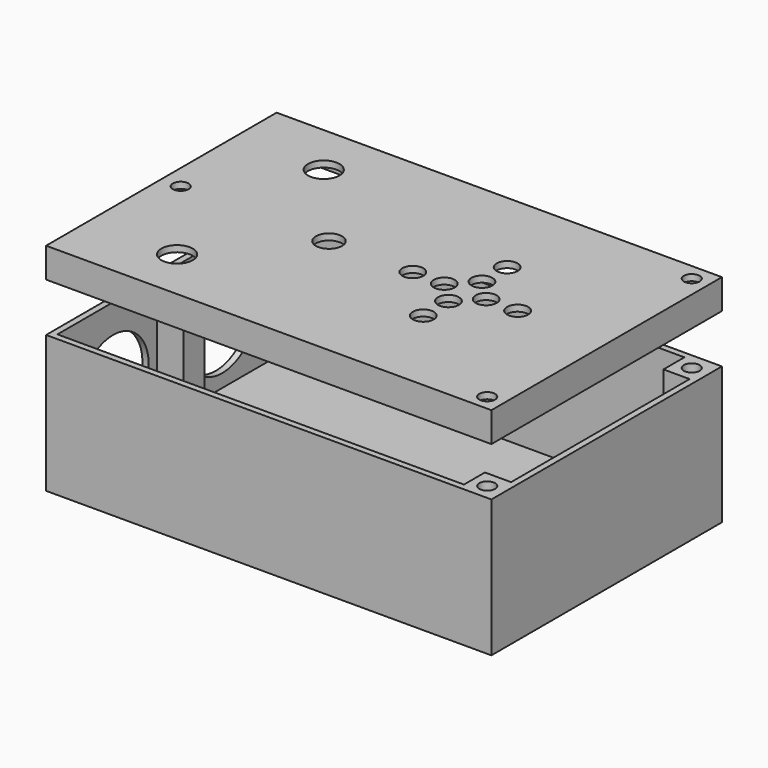
from build123d import *

# Parameters (mm, degrees)
SKETCH_W        = 85
SKETCH_H        = 55
PAD_DEPTH       = 1.2
SKETCH001_W     = 85
SKETCH001_H     = 55
SKETCH001_W_2   = 82.6
SKETCH001_H_2   = 52.6
PAD001_DEPTH    = 25
SKETCH002_R     = 8.5
POCKET_DEPTH    = 5
SKETCH003_W     = 6.2
SKETCH003_H     = 6.2
SKETCH003_W_2   = 5
SKETCH003_H_2   = 5
PAD002_DEPTH    = 25
SKETCH004_R     = 1.5
POCKET001_DEPTH = 20
SKETCH005_W     = 85
SKETCH005_H     = 55
SKETCH005_R     = 1.5
PAD003_DEPTH    = 1.2
SKETCH006_R     = 3
SKETCH006_R_2   = 2.5
SKETCH006_R_3   = 2
POCKET002_DEPTH = 2
SKETCH007_W     = 85
SKETCH007_H     = 55
SKETCH007_W_2   = 82.6
SKETCH007_H_2   = 52.6
PAD004_DEPTH    = 4.5


with BuildPart() as body:
    # Sketch → Pad (new body)
    with BuildSketch(Plane.XY):
        with Locations((42.5, 27.5)):
            Rectangle(SKETCH_W, SKETCH_H)
    extrude(amount=PAD_DEPTH)

    # Sketch001 (on Face6 of Pad) → Pad001 (join)
    with BuildSketch(Plane.XY.offset(1.2)):
        with Locations((42.5, 27.5)):
            Rectangle(SKETCH001_W, SKETCH001_H)
        with Locations((42.5, 27.5)):
            Rectangle(SKETCH001_W_2, SKETCH001_H_2, mode=Mode.SUBTRACT)
    extrude(amount=PAD001_DEPTH)

    # Sketch002 (on Face7 of Pad001) → Pocket (cut)
    with BuildSketch(Plane(origin=(0, 0, 0), x_dir=(0, -1, 0), z_dir=(-1, 0, 0))):
        with Locations((-40.5, 12.2)):
            Circle(SKETCH002_R)
        with Locations((-14.5, 12.2)):
            Circle(SKETCH002_R)
    extrude(amount=-POCKET_DEPTH, mode=Mode.SUBTRACT)

    # Sketch003 (on Face17 of Pocket) → Pad002 (join)
    with BuildSketch(Plane.XY.offset(1.2)):
        with Locations((81.9, 51.9)):
            Rectangle(SKETCH003_W, SKETCH003_H)
        with Locations((81.9, 3.1)):
            Rectangle(SKETCH003_W, SKETCH003_H)
        with Locations((3.7, 27.5)):
            Rectangle(SKETCH003_W_2, SKETCH003_H_2)
    extrude(amount=PAD002_DEPTH)

    # Sketch004 (on Face22 of Pad002) → Pocket001 (cut)
    with BuildSketch(Plane.XY.offset(26.2)):
        with Locations((3.7, 27.5)):
            Circle(SKETCH004_R)
        with Locations((81.8, 51.8)):
            Circle(SKETCH004_R)
        with Locations((81.8, 3)):
            Circle(SKETCH004_R)
    extrude(amount=-POCKET001_DEPTH, mode=Mode.SUBTRACT)


with BuildPart() as body001:
    # Sketch005 → Pad003 (new body)
    with BuildSketch(Plane.XY):
        with Locations((42.5, 27.5)):
            Rectangle(SKETCH005_W, SKETCH005_H)
        with Locations((3.7, 27.5)):
            Circle(SKETCH005_R, mode=Mode.SUBTRACT)
        with Locations((81.8, 51.8)):
            Circle(SKETCH005_R, mode=Mode.SUBTRACT)
        with Locations((81.8, 3)):
            Circle(SKETCH005_R, mode=Mode.SUBTRACT)
    extrude(amount=PAD003_DEPTH)

    # Sketch006 (on Face9 of Pad003) → Pocket002 (cut)
    with BuildSketch(Plane.XY.offset(1.2)):
        with Locations((17, 45)):
            Circle(SKETCH006_R)
        with Locations((17, 10)):
            Circle(SKETCH006_R)
        with Locations((32, 27.5)):
            Circle(SKETCH006_R_2)
        with Locations((58, 23.5)):
            Circle(SKETCH006_R_3)
        with Locations((58, 31.5)):
            Circle(SKETCH006_R_3)
        with Locations((54, 27.5)):
            Circle(SKETCH006_R_3)
        with Locations((62, 27.5)):
            Circle(SKETCH006_R_3)
        with Locations((58, 37.5)):
            Circle(SKETCH006_R_3)
        with Locations((58, 17.5)):
            Circle(SKETCH006_R_3)
        with Locations((48, 27.5)):
            Circle(SKETCH006_R_3)
        with Locations((68, 27.5)):
            Circle(SKETCH006_R_3)
    extrude(amount=-POCKET002_DEPTH, mode=Mode.SUBTRACT)

    # Sketch007 (on Face4 of Pocket002) → Pad004 (join)
    with BuildSketch(Plane(origin=(0, 0, 0), x_dir=(1, 0, 0), z_dir=(0, 0, -1))):
        with Locations((42.5, -27.5)):
            Rectangle(SKETCH007_W, SKETCH007_H)
        with Locations((42.5, -27.5)):
            Rectangle(SKETCH007_W_2, SKETCH007_H_2, mode=Mode.SUBTRACT)
    extrude(amount=PAD004_DEPTH)


with BuildPart() as body001_1:
    # Body001 placement: moved
    add(body001.part.moved(Location((0, 0, 40))))


solid = Compound([body.part, body001_1.part])
